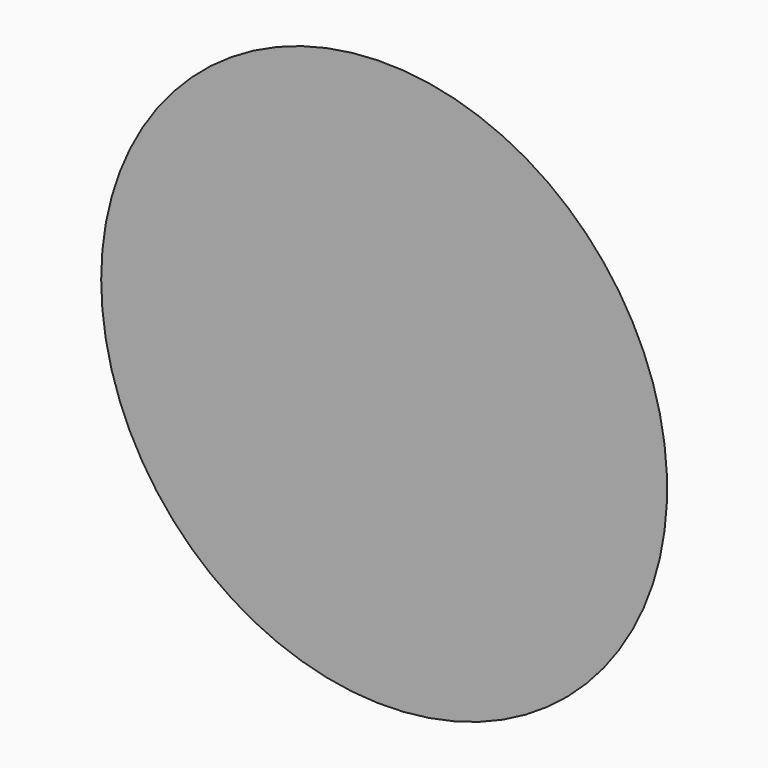
from build123d import *


with BuildPart() as f1:
    # F0 (on Top) → F1 (revolve)
    with BuildSketch(Plane.XY):
        Polygon((40.98073, 36.586292), (0, 0), (40.98073, 0), align=None)
    revolve(axis=Axis((40.98073, 18.293146, 0), (0, -1, 0)))


solid = f1.part
